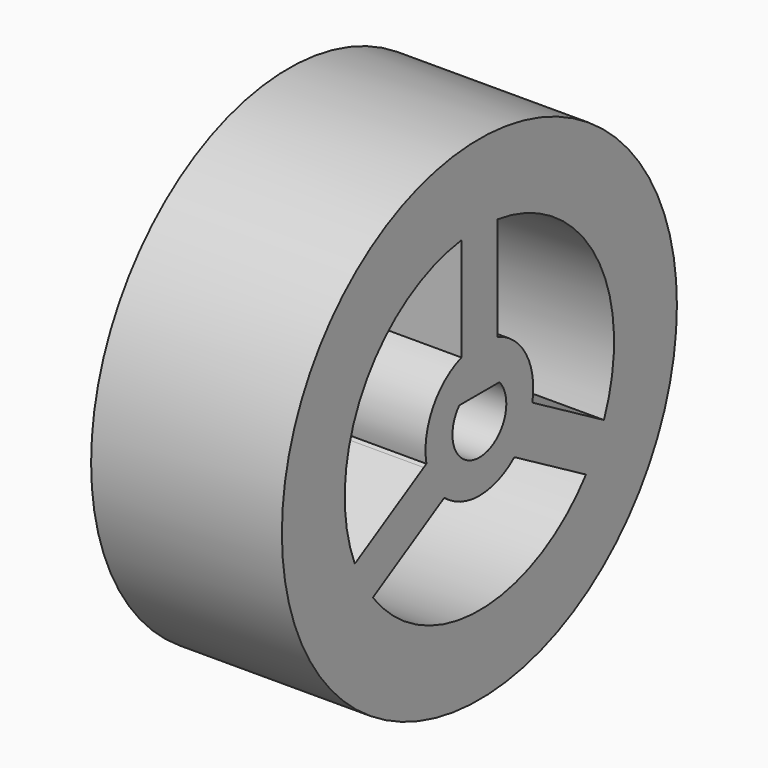
from build123d import *

# Parameters (mm, degrees)
F0_R     = 11
F1_DEPTH = 8.5
F3_DEPTH = 8.5
F5_DEPTH = 8.5


with BuildPart() as f1:
    # F0 (on Right) → F1 (new body)
    with BuildSketch(Plane.YZ):
        Circle(F0_R)
    extrude(amount=F1_DEPTH)

    # F2 (on face) → F3 (cut, through all)
    with BuildSketch(Plane.YZ.offset(8.5)):
        with BuildLine():
            Line((-1, 3), (-1, 7.433034))
            ThreePointArc((-1, 7.433034), (-6.495191, 3.75), (-6.937197, -2.850492))
            Line((-6.937197, -2.850492), (-3.098076, -0.633975))
            Line((-3.098076, -0.633975), (-2.94949, -0.548188))
            ThreePointArc((-2.94949, -0.548188), (-2.598076, 1.5), (-1, 2.828427))
            Line((-1, 2.828427), (-1, 3))
        make_face()
        with BuildLine():
            Line((1, 3.171573), (1, 3))
            Line((1, 3), (1, 2.828427))
            ThreePointArc((1, 2.828427), (2.598076, 1.5), (2.94949, -0.548188))
            Line((2.94949, -0.548188), (3.098076, -0.633975))
            Line((3.098076, -0.633975), (6.937197, -2.850492))
            ThreePointArc((6.937197, -2.850492), (6.495191, 3.75), (1, 7.433034))
            Line((1, 7.433034), (1, 3.171573))
        make_face()
        with BuildLine():
            Line((-1.94949, -2.280239), (-2.098076, -2.366025))
            Line((-2.098076, -2.366025), (-5.937197, -4.582543))
            ThreePointArc((-5.937197, -4.582543), (0, -7.5), (5.937197, -4.582543))
            Line((5.937197, -4.582543), (2.098076, -2.366025))
            Line((2.098076, -2.366025), (1.94949, -2.280239))
            ThreePointArc((1.94949, -2.280239), (0, -3), (-1.94949, -2.280239))
        make_face()
    extrude(amount=-F3_DEPTH, mode=Mode.SUBTRACT)

    # F4 (on face) → F5 (cut, through all)
    with BuildSketch(Plane.YZ.offset(8.5)):
        with BuildLine():
            Line((1.118034, 1), (-1.118034, 1))
            ThreePointArc((-1.118034, 1), (0, -1.5), (1.118034, 1))
        make_face()
    extrude(amount=-F5_DEPTH, mode=Mode.SUBTRACT)


solid = f1.part
